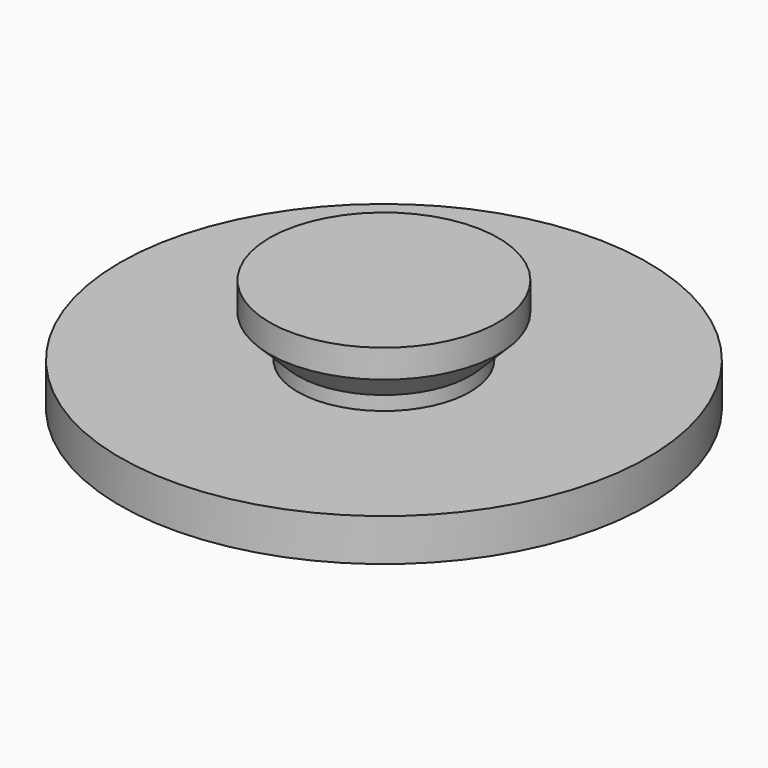
from build123d import *


with BuildPart() as part:
    # Sketch → Revolution (revolve)
    with BuildSketch(Plane.XZ):
        Polygon((0, 0), (-7.5, 0), (-7.5, 1.2), (-2.45, 1.2), (-2.45, 1.6), (-3.25, 2.4), (-3.25, 3.2), (0, 3.2), align=None)
    revolve(axis=Axis((0, 0, 0), (0, 0, 1)))


solid = part.part
